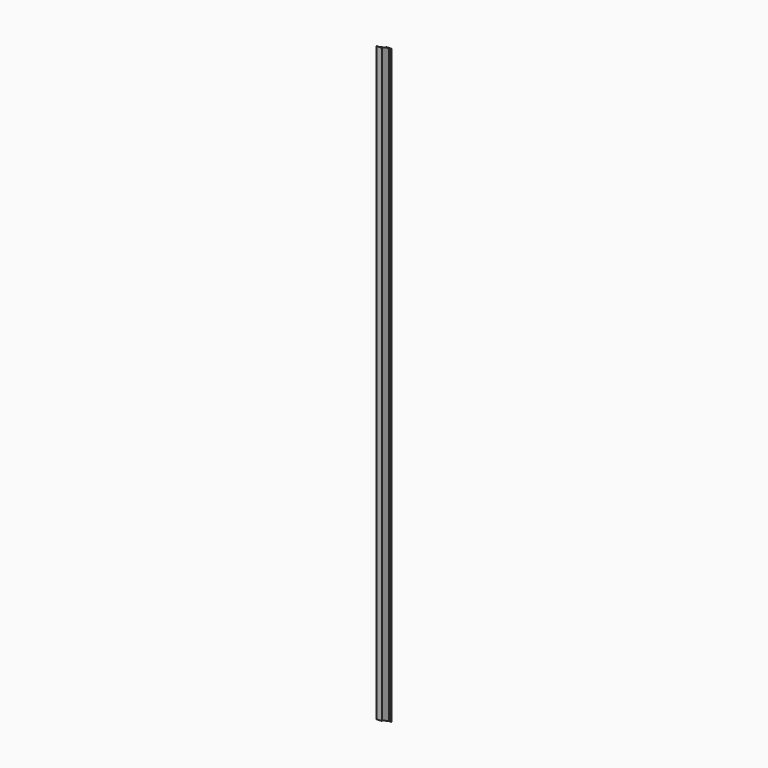
from build123d import *

# Parameters (mm, degrees)
F0_W     = 88.9
F0_H     = 203.2
F1_DEPTH = 10668
F2_W     = 39.6875
F2_H     = 193.04
F3_DEPTH = 10668.001
F5_DEPTH = 63.5


with BuildPart() as f1:
    # F0 (on Top) → F1 (new body)
    with BuildSketch(Plane.XY):
        Rectangle(F0_W, F0_H)
    extrude(amount=F1_DEPTH)

    # F2 (on Top) → F3 (cut, through all)
    with BuildSketch(Plane.XY):
        with Locations((-24.60625, 0)):
            Rectangle(F2_W, F2_H)
        with Locations((24.60625, 0)):
            Rectangle(F2_W, F2_H)
    extrude(amount=F3_DEPTH, mode=Mode.SUBTRACT)

    # F4 (on Right) → F5 (intersect, symmetric)
    with BuildSketch(Plane.YZ):
        Polygon((-101.6, 94.178148), (101.6, 0), (101.6, 10078.368968), (-101.6, 10172.547116), align=None)
    extrude(amount=F5_DEPTH, both=True, mode=Mode.INTERSECT)


solid = f1.part
